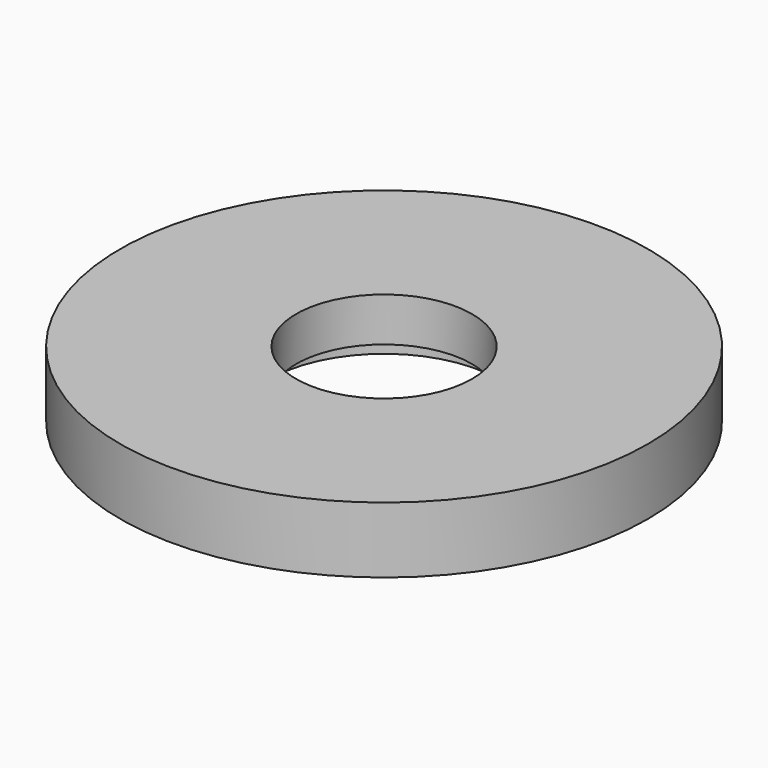
from build123d import *

# Parameters (mm, degrees)
CYLINDER004_R     = 4
CYLINDER004_DEPTH = 10
CYLINDER003_R     = 5.2
CYLINDER003_DEPTH = 3
CYLINDER_R        = 12
CYLINDER_DEPTH    = 3


with BuildPart() as cylinder004:
    # Cylinder004 → Cylinder004 (new body)
    with BuildSketch(Plane.XY):
        Circle(CYLINDER004_R)
    extrude(amount=CYLINDER004_DEPTH)


with BuildPart() as cylinder003:
    # Cylinder003 → Cylinder003 (new body)
    with BuildSketch(Plane.XY.offset(-2)):
        Circle(CYLINDER003_R)
    extrude(amount=CYLINDER003_DEPTH)


with BuildPart() as cut001:
    # Cylinder → Cylinder (new body)
    with BuildSketch(Plane.XY):
        Circle(CYLINDER_R)
    extrude(amount=CYLINDER_DEPTH)

    # Cut: cut Cylinder003
    add(cylinder003.part, mode=Mode.SUBTRACT)

    # Cut001: cut Cylinder004
    add(cylinder004.part, mode=Mode.SUBTRACT)


with BuildPart() as cut001_1:
    # Cut001 placement: moved
    add(cut001.part.moved(Location((0, 0, 6))))


solid = cut001_1.part
